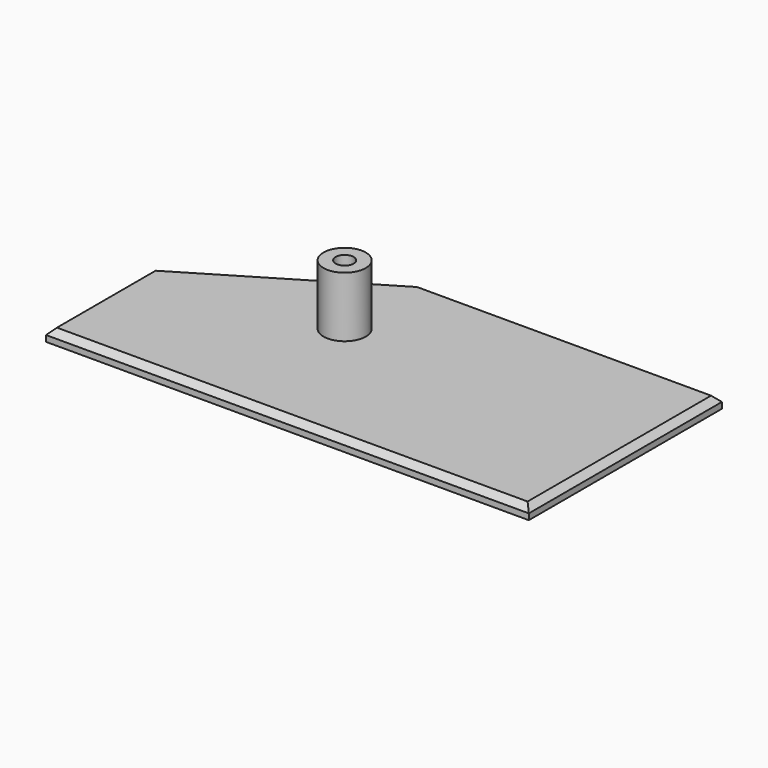
from build123d import *

# Parameters (mm, degrees)
F1_DEPTH = 2
F2_SIZE  = 1
F3_R     = 3.5
F4_DEPTH = 10
F5_R     = 1.5
F6_DEPTH = 15


with BuildPart() as f1:
    # F0 (on Top) → F1 (new body)
    with BuildSketch(Plane.XY):
        Polygon((-30, 0), (0, 0), (50, 0), (50, 40), (0, 40), (-30, 22), align=None)
    extrude(amount=F1_DEPTH)

    # F2
    f2_edges = [f1.edges().sort_by_distance(p)[0] for p in [
        (10, 0, 2),
        (-30, 11, 2),
        (-15, 31, 2),
        (25, 40, 2),
        (50, 20, 2),
    ]]
    chamfer(f2_edges, length=F2_SIZE)

    # F3 (on face) → F4 (join)
    with BuildSketch(Plane.XY.offset(2)):
        with Locations((0.276984, 24)):
            Circle(F3_R)
    extrude(amount=F4_DEPTH)

    # F5 (on face) → F6 (cut)
    with BuildSketch(Plane.XY.offset(12)):
        with Locations((0.276984, 24)):
            Circle(F5_R)
    extrude(amount=-F6_DEPTH, mode=Mode.SUBTRACT)


solid = f1.part
